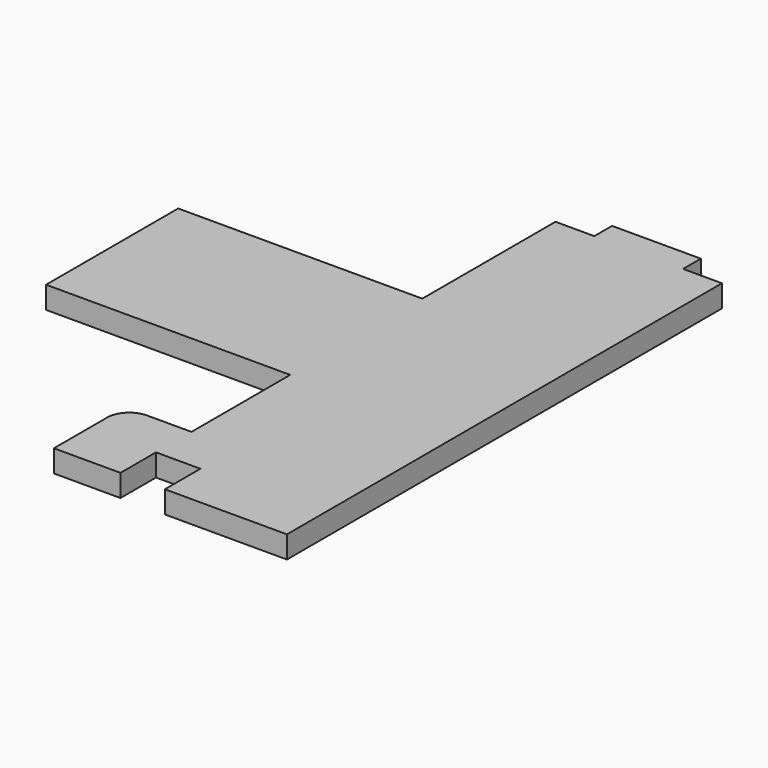
from build123d import *

# Parameters (mm, degrees)
F1_DEPTH = 6.35


with BuildPart() as f1:
    # F0 (on Top) → F1 (new body)
    with BuildSketch(Plane.XY):
        with BuildLine():
            Line((21.172512, -375.689603), (21.172512, -220.114603))
            Line((21.172512, -220.114603), (10.060012, -220.114603))
            Line((10.060012, -220.114603), (10.060012, -213.764603))
            Line((10.060012, -213.764603), (-15.339988, -213.764603))
            Line((-15.339988, -213.764603), (-15.339988, -220.114603))
            Line((-15.339988, -220.114603), (-26.452488, -220.114603))
            Line((-26.452488, -220.114603), (-26.452488, -267.739603))
            Line((-26.452488, -267.739603), (-96.302488, -267.739603))
            Line((-96.302488, -267.739603), (-96.302488, -314.983603))
            Line((-96.302488, -314.983603), (-26.452488, -314.983603))
            Line((-26.452488, -314.983603), (-26.452488, -350.289603))
            Line((-26.452488, -350.289603), (-39.152488, -350.289603))
            ThreePointArc((-39.152488, -350.289603), (-43.642616, -352.149475), (-45.502488, -356.639603))
            Line((-45.502488, -356.639603), (-45.502488, -375.689603))
            Line((-45.502488, -375.689603), (-26.452488, -375.689603))
            Line((-26.452488, -375.689603), (-26.452488, -362.989603))
            Line((-26.452488, -362.989603), (-13.752488, -362.989603))
            Line((-13.752488, -362.989603), (-13.752488, -375.689603))
            Line((-13.752488, -375.689603), (21.172512, -375.689603))
        make_face()
    extrude(amount=F1_DEPTH)


solid = f1.part
